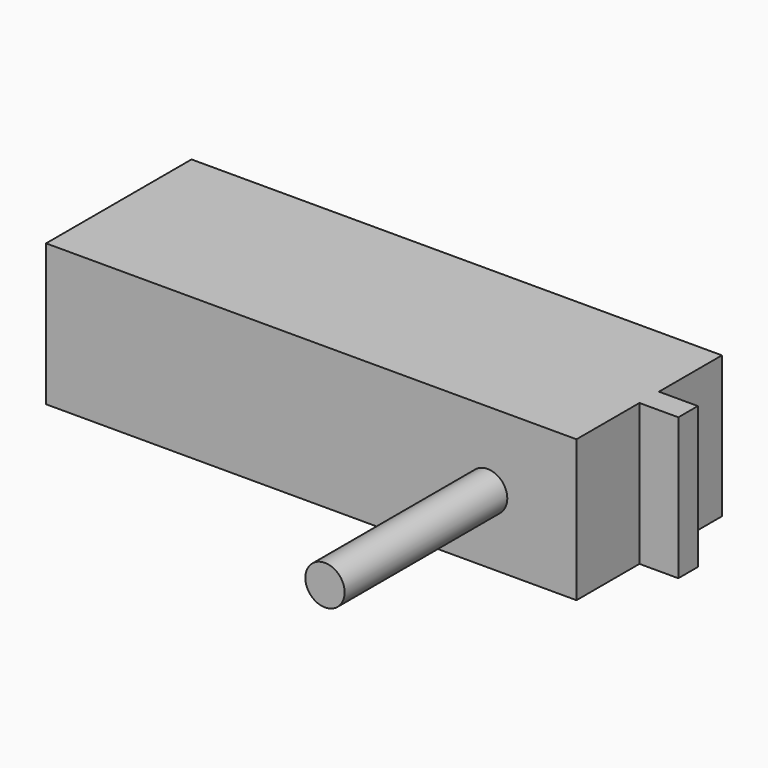
from build123d import *

# Parameters (mm, degrees)
F0_W     = 4.78
F0_H     = 3
F1_DEPTH = 17.42
F2_R     = 2.415
F3_DEPTH = 25


with BuildPart() as f1:
    # F0 (on Top) → F1 (new body)
    with BuildSketch(Plane.XY):
        Polygon((-119.625093, 5.816058), (-108.705093, 5.816058), (-108.705093, 15.491058), (-108.705093, 18.491058), (-108.705093, 28.166058), (-173.915093, 28.166058), (-173.915093, 5.816058), (-124.455093, 5.816058), align=None)
        with Locations((-106.315093, 16.991058)):
            Rectangle(F0_W, F0_H)
    extrude(amount=F1_DEPTH)

    # F2 (on face) → F3 (join)
    with BuildSketch(Plane.XZ.offset(-5.816058)):
        with Locations((-119.625093, 8.245)):
            Circle(F2_R)
    extrude(amount=F3_DEPTH)


solid = f1.part
